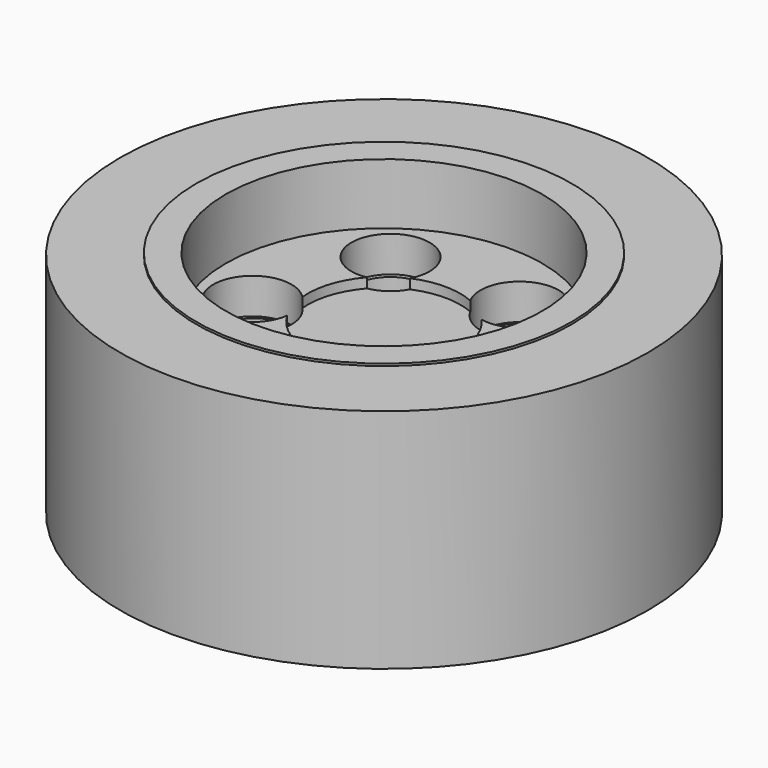
from build123d import *

# Parameters (mm, degrees)
SKETCH_R        = 9.65
SKETCH_R_2      = 8.15
PAD_DEPTH       = 11.6
SKETCH001_R     = 8.15
PAD001_DEPTH    = 3
SKETCH002_R     = 2
POCKET_DEPTH    = 5
SKETCH003_R     = 3
SKETCH003_R_2   = 1.5
PAD002_DEPTH    = 10
SKETCH004_R     = 3.90526
POCKET001_DEPTH = 0.5
SKETCH005_R     = 13.5
SKETCH005_R_2   = 9.597168
PAD003_DEPTH    = 11.6
SKETCH008_R     = 3
POCKET002_DEPTH = 0.2
SKETCH009_R     = 1.85188
POCKET003_DEPTH = 5


with BuildPart() as body:
    # Sketch → Pad (new body)
    with BuildSketch(Plane.XY):
        Circle(SKETCH_R)
        Circle(SKETCH_R_2, mode=Mode.SUBTRACT)
    extrude(amount=PAD_DEPTH)

    # Sketch001 (on Face4 of Pad) → Pad001 (join)
    with BuildSketch(Plane.XY.offset(8.6)):
        Circle(SKETCH001_R)
    extrude(amount=-PAD001_DEPTH)

    # Sketch002 (on Face6 of Pad001) → Pocket (cut)
    with BuildSketch(Plane(origin=(0, 0, 5.6), x_dir=(1, 0, 0), z_dir=(0, 0, -1))):
        with Locations((0, 5.615103)):
            Circle(SKETCH002_R)
        with Locations((5.34028, 1.735162)):
            Circle(SKETCH002_R)
        with Locations((3.300475, -4.542714)):
            Circle(SKETCH002_R)
        with Locations((-3.300475, -4.542714)):
            Circle(SKETCH002_R)
        with Locations((-5.34028, 1.735162)):
            Circle(SKETCH002_R)
    extrude(amount=-POCKET_DEPTH, mode=Mode.SUBTRACT)

    # Sketch003 (on Face6 of Pocket) → Pad002 (join)
    with BuildSketch(Plane(origin=(0, 0, 5.6), x_dir=(1, 0, 0), z_dir=(0, 0, -1))):
        Circle(SKETCH003_R)
        Circle(SKETCH003_R_2, mode=Mode.SUBTRACT)
    extrude(amount=PAD002_DEPTH)

    # Sketch004 (on Face7 of Pad002) → Pocket001 (cut)
    with BuildSketch(Plane.XY.offset(8.6)):
        Circle(SKETCH004_R)
    extrude(amount=-POCKET001_DEPTH, mode=Mode.SUBTRACT)


with BuildPart() as body002:
    # Sketch005 → Pad003 (new body)
    with BuildSketch(Plane.XY):
        Circle(SKETCH005_R)
        Circle(SKETCH005_R_2, mode=Mode.SUBTRACT)
    extrude(amount=PAD003_DEPTH)


with BuildPart() as body003:
    # Sketch007 → Revolution (revolve)
    with BuildSketch(Plane.XZ):
        with BuildLine():
            Line((-8.093517, 11.712522), (-9.593517, 11.712522))
            Line((-9.593517, 11.712522), (-9.593517, 0))
            Line((-9.593517, 0), (-8.093517, 0))
            Line((-8.093517, 3.77512), (-8.093517, 0))
            Line((-8.093517, 3.77512), (-5.740786, 3.77512))
            ThreePointArc((-2.859081, 0.893415), (-3.703113, 2.931088), (-5.740786, 3.77512))
            Line((-2.859081, 0.893415), (-2.859081, -4.450127))
            Line((-2.859081, -4.450127), (-1.6, -4.450127))
            Line((-1.6, 3.77512), (-1.6, -4.450127))
            Line((-1.6, 3.77512), (0, 3.77512))
            Line((0, 3.77512), (0, 6.77512))
            Line((0, 6.77512), (-8.093517, 6.77512))
            Line((-8.093517, 11.712522), (-8.093517, 6.77512))
        make_face()
    revolve(axis=Axis((0, 0, 0), (0, 0, 1)))

    # Sketch008 (on Face2 of Revolution) → Pocket002 (cut)
    with BuildSketch(Plane(origin=(0, 0, 6.77512), x_dir=(-1, 0, 0), z_dir=(0, 0, 1))):
        Circle(SKETCH008_R)
    extrude(amount=-POCKET002_DEPTH, mode=Mode.SUBTRACT)

    # Sketch009 (on Face12 of Pocket002) → Pocket003 (cut)
    with BuildSketch(Plane(origin=(0, 0, 6.77512), x_dir=(-1, 0, 0), z_dir=(0, 0, 1))):
        with Locations((0, 5.534557)):
            Circle(SKETCH009_R)
        with Locations((5.263676, 1.710272)):
            Circle(SKETCH009_R)
        with Locations((3.253131, -4.477551)):
            Circle(SKETCH009_R)
        with Locations((-3.253131, -4.477551)):
            Circle(SKETCH009_R)
        with Locations((-5.263676, 1.710272)):
            Circle(SKETCH009_R)
    extrude(amount=-POCKET003_DEPTH, mode=Mode.SUBTRACT)


solid = Compound([body.part, body002.part, body003.part])
